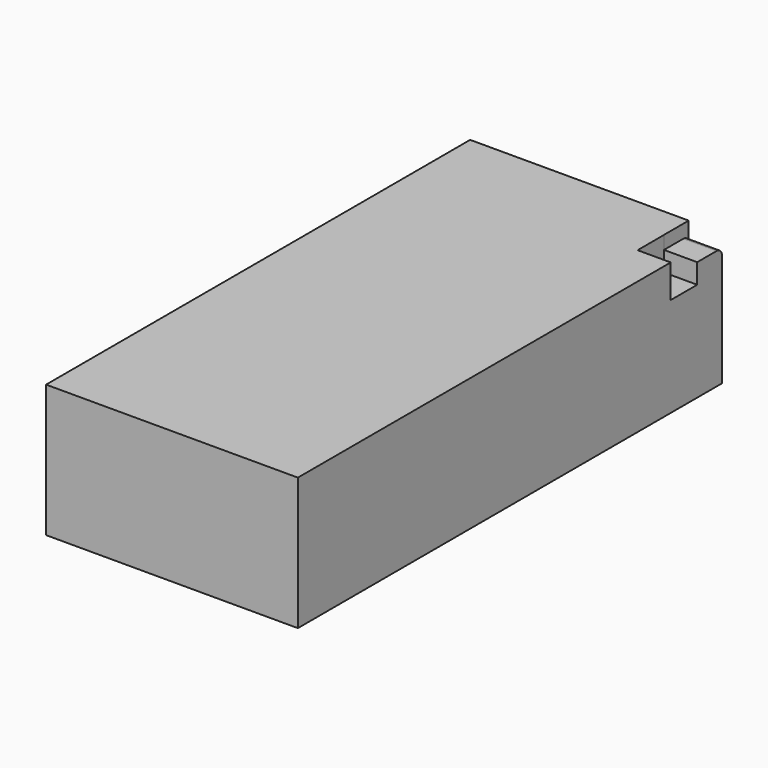
from build123d import *

# Parameters (mm, degrees)
SKETCH_W        = 38
SKETCH_H        = 80
PAD_DEPTH       = 20
SKETCH001_W     = 5
SKETCH001_H     = 5
POCKET_DEPTH    = 5
SKETCH002_W     = 5.01717
SKETCH002_H     = 4.6615971845
POCKET001_DEPTH = 2
FILLET_R        = 1


with BuildPart() as part:
    # Sketch → Pad (new body)
    with BuildSketch(Plane.XY):
        with Locations((19, 40)):
            Rectangle(SKETCH_W, SKETCH_H)
    extrude(amount=PAD_DEPTH)

    # Sketch001 (on Face6 of Pad) → Pocket (cut)
    with BuildSketch(Plane.XY.offset(20)):
        with Locations((35.5, 72.8384028155)):
            Rectangle(SKETCH001_W, SKETCH001_H)
    extrude(amount=-POCKET_DEPTH, mode=Mode.SUBTRACT)

    # Sketch002 (on Face5 of Pocket) → Pocket001 (cut)
    with BuildSketch(Plane.XY.offset(20)):
        with Locations((35.491415, 77.6692014078)):
            Rectangle(SKETCH002_W, SKETCH002_H)
    extrude(amount=-POCKET001_DEPTH, mode=Mode.SUBTRACT)

    # Fillet
    fillet_edges = [part.edges().sort_by_distance(p)[0] for p in [
        (35.491415, 80, 18),
    ]]
    fillet(fillet_edges, radius=FILLET_R)


solid = part.part
